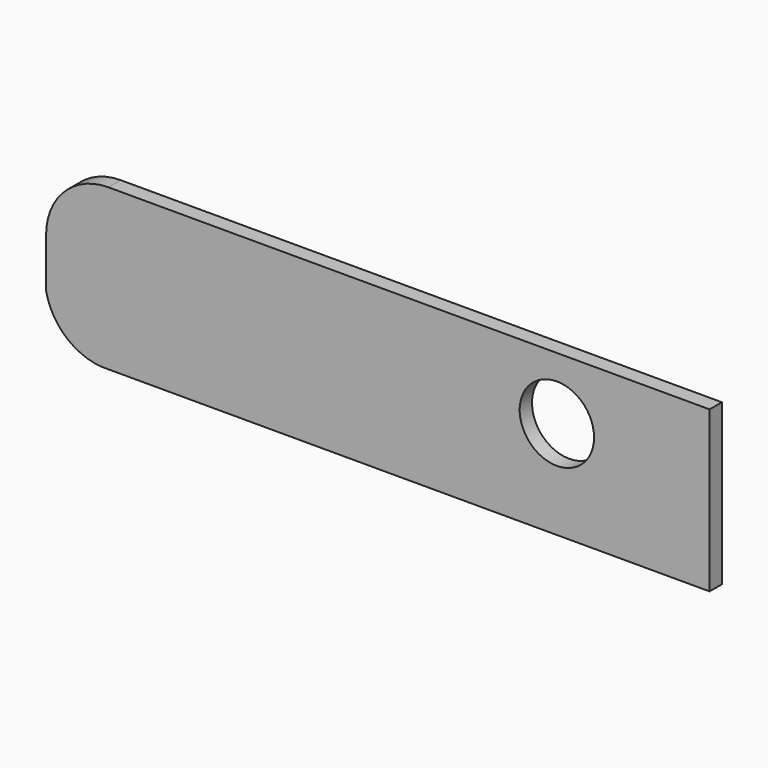
from build123d import *

# Parameters (mm, degrees)
F0_R     = 1.838713
F1_DEPTH = 0.762


with BuildPart() as f1:
    # F0 (on Front) → F1 (new body)
    with BuildSketch(Plane.XZ):
        with BuildLine():
            Line((7.552237, 3.078119), (-22.179499, 3.078119))
            ThreePointArc((-22.179499, 3.078119), (-24.356058, 2.176559), (-25.257618, 0))
            Line((-25.257618, 0), (-25.257618, -2.423407))
            ThreePointArc((-25.257618, -2.423407), (-24.289763, -4.111575), (-22.488076, -4.846813))
            Line((-22.488076, -4.846813), (-22.152904, -4.846813))
            Line((-22.152904, -4.846813), (7.552237, -4.846813))
            Line((7.552237, -4.846813), (7.552237, 3.078119))
        make_face()
        Circle(F0_R, mode=Mode.SUBTRACT)
    extrude(amount=F1_DEPTH)


solid = f1.part
